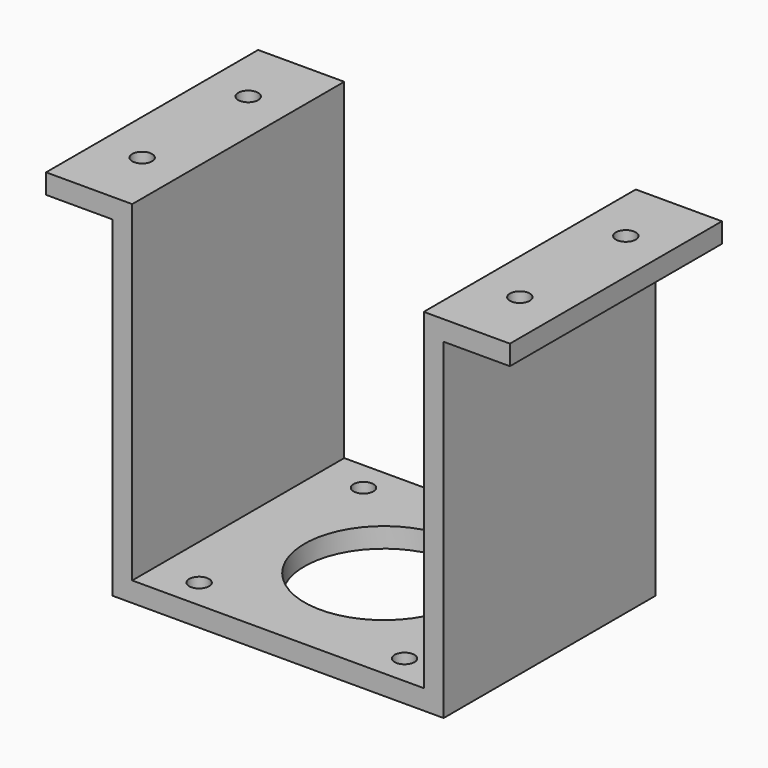
from build123d import *

# Parameters (mm, degrees)
F0_W      = 50
F0_H      = 40
F1_DEPTH  = 3
F2_W      = 3
F2_H      = 40
F3_DEPTH  = 50
F4_W      = 40
F4_H      = 3
F5_DEPTH  = 10
F6_W      = 40
F6_H      = 3
F7_DEPTH  = 10
F9_D      = 3
F8_R      = 12
F10_DEPTH = 25
F12_D     = 3
F14_D     = 3


with BuildPart() as f1:
    # F0 (on Top) → F1 (new body)
    with BuildSketch(Plane.XY):
        Rectangle(F0_W, F0_H)
    extrude(amount=F1_DEPTH)

    # F2 (on face) → F3 (join)
    with BuildSketch(Plane.XY.offset(3)):
        with Locations((23.5, 0)):
            Rectangle(F2_W, F2_H)
        with Locations((-23.5, 0)):
            Rectangle(F2_W, F2_H)
    extrude(amount=F3_DEPTH)

    # F4 (on face) → F5 (join)
    with BuildSketch(Plane.YZ.offset(25)):
        with Locations((0, 51.5)):
            Rectangle(F4_W, F4_H)
    extrude(amount=F5_DEPTH)

    # F6 (on face) → F7 (join)
    with BuildSketch(Plane(origin=(-25, 0, 0), x_dir=(0, -1, 0), z_dir=(-1, 0, 0))):
        with Locations((0, 51.5)):
            Rectangle(F6_W, F6_H)
    extrude(amount=F7_DEPTH)

    # F9 (through all)
    with Locations(Plane(origin=(0, 0, 0), x_dir=(1, 0, 0), z_dir=(0, 0, -1))):
        with Locations((-15.5, 15.5), (15.5, 15.5), (15.5, -15.5), (-15.5, -15.5)):
            Hole(F9_D / 2)

    # F8 (on face) → F10 (cut)
    with BuildSketch(Plane(origin=(0, 0, 0), x_dir=(1, 0, 0), z_dir=(0, 0, -1))):
        Circle(F8_R)
    extrude(amount=-F10_DEPTH, mode=Mode.SUBTRACT)

    # F12 (through all)
    with Locations(Plane.XY.offset(53)):
        with Locations((-28.5, -10), (-28.5, 10)):
            Hole(F12_D / 2)

    # F14 (through all)
    with Locations(Plane.XY.offset(53)):
        with Locations((28.5, 10), (28.5, -10)):
            Hole(F14_D / 2)


solid = f1.part
